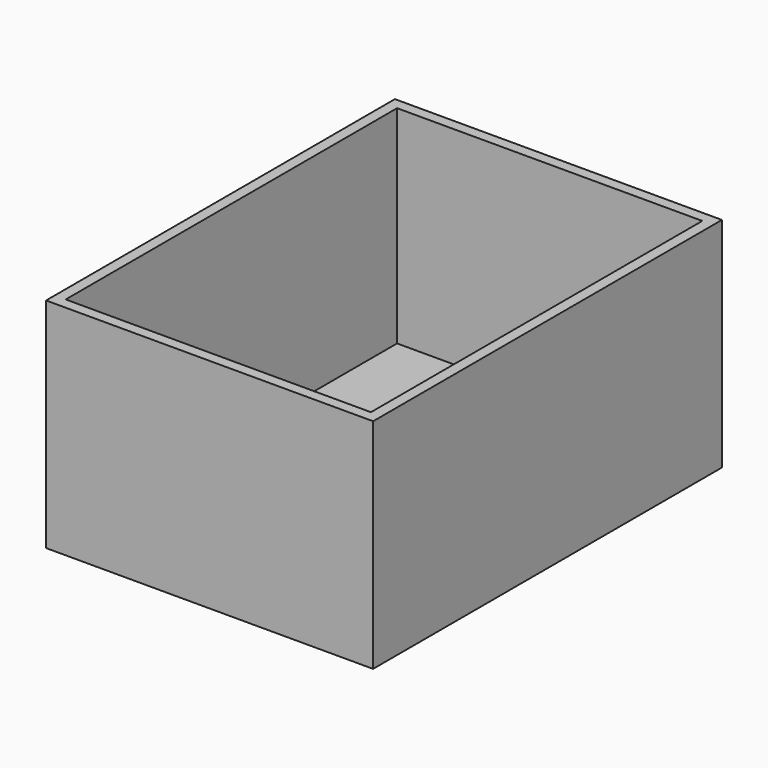
from build123d import *

# Parameters (mm, degrees)
F0_W          = 76.2
F0_H          = 101.6
F1_DEPTH      = 25.4
F1_DEPTH_BACK = 25.4
F2_T          = -2.54


with BuildPart() as f1:
    # F0 (on Top) → F1 (new body, two sides)
    with BuildSketch(Plane.XY) as f1_sk:
        Rectangle(F0_W, F0_H)
    extrude(amount=F1_DEPTH)
    extrude(f1_sk.sketch, amount=-F1_DEPTH_BACK)

    # F2
    f2_openings = [f1.faces().sort_by_distance(p)[0] for p in [
        (0, 0, 25.4),
    ]]
    offset(amount=F2_T, openings=f2_openings)


solid = f1.part
